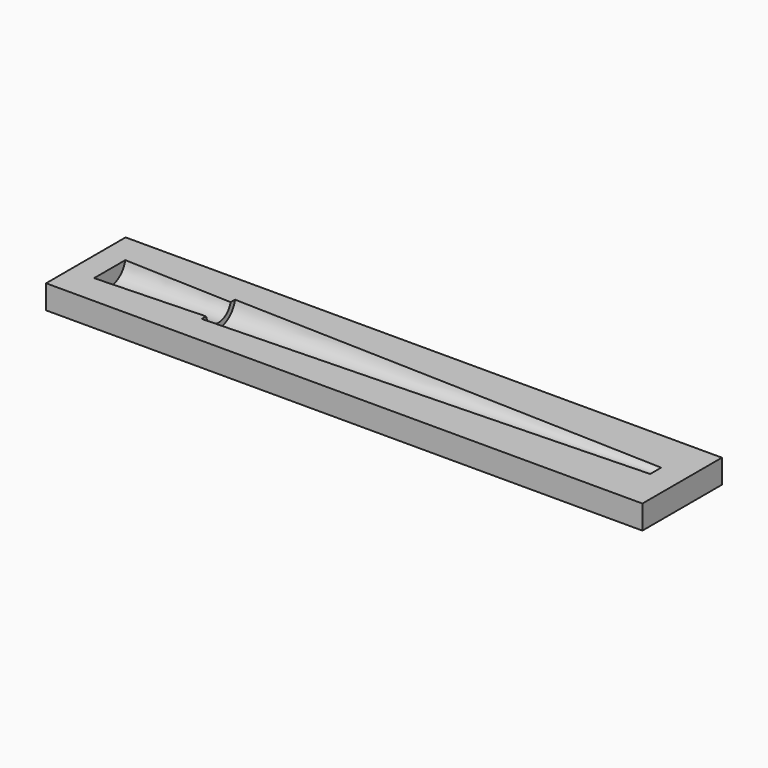
from build123d import *

# Parameters (mm, degrees)
F1_START = -3
F0_W     = 450
F0_H     = 75
F1_DEPTH = 18


with BuildPart() as f1:
    # F0 (on Top) → F1 (new body)
    with BuildSketch(Plane.XY.offset(F1_START)):
        with Locations((-46.441080947, -17.9248391946)):
            Rectangle(F0_W, F0_H)
        Polygon((-253.441080947, -32.9248391946), (-253.441080947, -17.9248391946), (158.558919053, -17.9248391946), (158.558919053, -23.9248391946), (-171.441080947, -33.9248391946), (-171.441080947, -29.9248391946), align=None, mode=Mode.SUBTRACT)
        Polygon((158.558919053, -17.9248391946), (-253.441080947, -17.9248391946), (-253.441080947, -32.9248391946), (-171.441080947, -29.9248391946), (-171.441080947, -33.9248391946), (158.558919053, -23.9248391946), align=None)
    extrude(amount=-F1_DEPTH)

    # F0 (on Top) → F2 (revolve, cut)
    with BuildSketch(Plane.XY):
        Polygon((158.558919053, -17.9248391946), (-253.441080947, -17.9248391946), (-253.441080947, -32.9248391946), (-171.441080947, -29.9248391946), (-171.441080947, -33.9248391946), (158.558919053, -23.9248391946), align=None)
    revolve(axis=Axis((12.0760278615, -17.9248391946, 0), (1, 0, 0)), mode=Mode.SUBTRACT)


solid = f1.part
